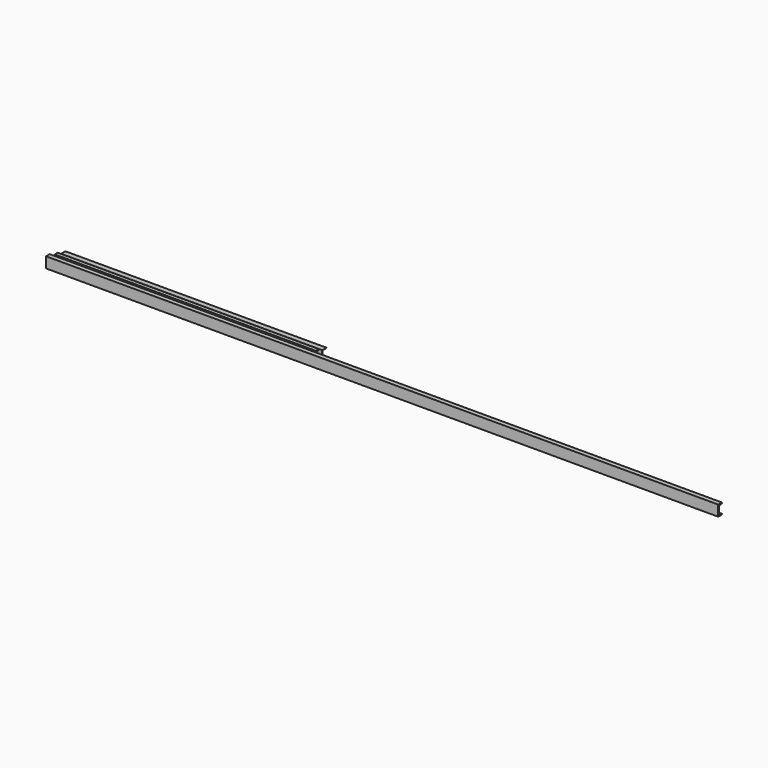
from build123d import *

# Parameters (mm, degrees)
F1_DEPTH = 6375.4
F2_DEPTH = 2476.5
F3_DEPTH = 2476.5


with BuildPart() as f1:
    # F0 (on Right) → F1 (new body)
    with BuildSketch(Plane.YZ):
        Polygon((0, 101.6), (0, 0), (43.688, 0), (43.688, 7.5184), (8.1534, 19.05), (8.1534, 82.55), (43.688, 94.0816), (43.688, 101.6), align=None)
    extrude(amount=F1_DEPTH)


with BuildPart() as f2:
    # F0 (on Right) → F2 (new body)
    with BuildSketch(Plane.YZ):
        Polygon((101.6, 76.2), (101.6, 0), (137.414, 0), (137.414, 6.9342), (105.918, 17.4625), (105.918, 58.7375), (137.414, 69.2658), (137.414, 76.2), align=None)
    extrude(amount=F2_DEPTH)


with BuildPart() as f3:
    # F0 (on Right) → F3 (new body)
    with BuildSketch(Plane.YZ):
        Polygon((177.8, 50.8), (177.8, 0), (180.975, 0), (180.975, 47.625), (228.6, 47.625), (228.6, 50.8), align=None)
    extrude(amount=F3_DEPTH)


solid = Compound([f1.part, f2.part, f3.part])
